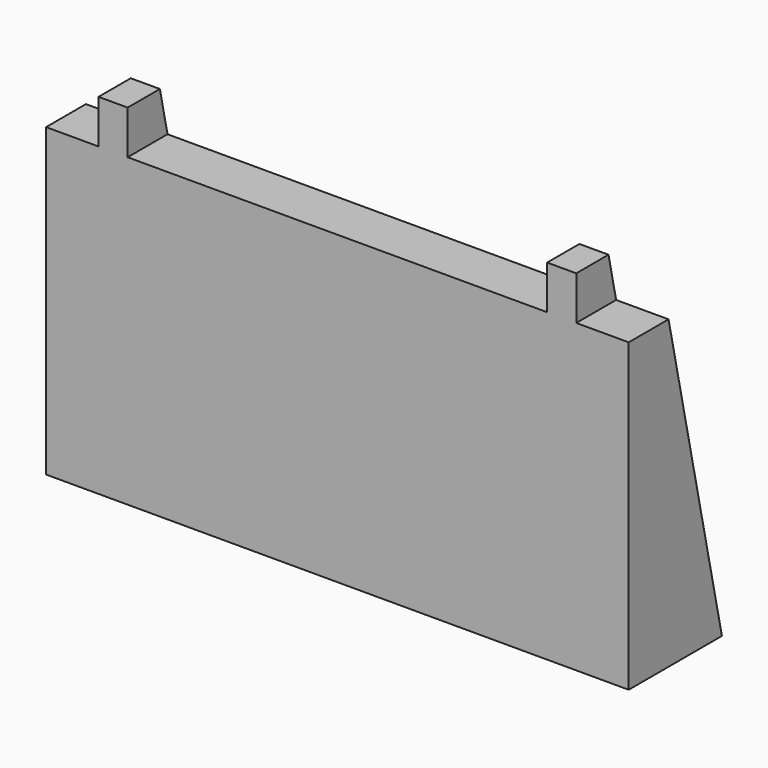
from build123d import *

# Parameters (mm, degrees)
F0_W     = 254
F0_H     = 152.4
F1_DEPTH = 50.8
F3_DEPTH = 254.001
F4_W     = 22.86
F4_H     = 19.05
F4_W_2   = 182.88
F5_DEPTH = 50.801


with BuildPart() as f1:
    # F0 (on Front) → F1 (new body)
    with BuildSketch(Plane.XZ):
        Rectangle(F0_W, F0_H)
    extrude(amount=F1_DEPTH)

    # F2 (on face) → F3 (cut, through all)
    with BuildSketch(Plane.YZ.offset(127)):
        Polygon((-33.228574, 76.2), (0, -76.2), (0, 76.2), align=None)
    extrude(amount=-F3_DEPTH, mode=Mode.SUBTRACT)

    # F4 (on face) → F5 (cut, through all)
    with BuildSketch(Plane.XZ.offset(50.8)):
        with Locations((-115.57, 66.675)):
            Rectangle(F4_W, F4_H)
        with Locations((0, 66.675)):
            Rectangle(F4_W_2, F4_H)
        with Locations((115.57, 66.675)):
            Rectangle(F4_W, F4_H)
    extrude(amount=-F5_DEPTH, mode=Mode.SUBTRACT)


solid = f1.part
